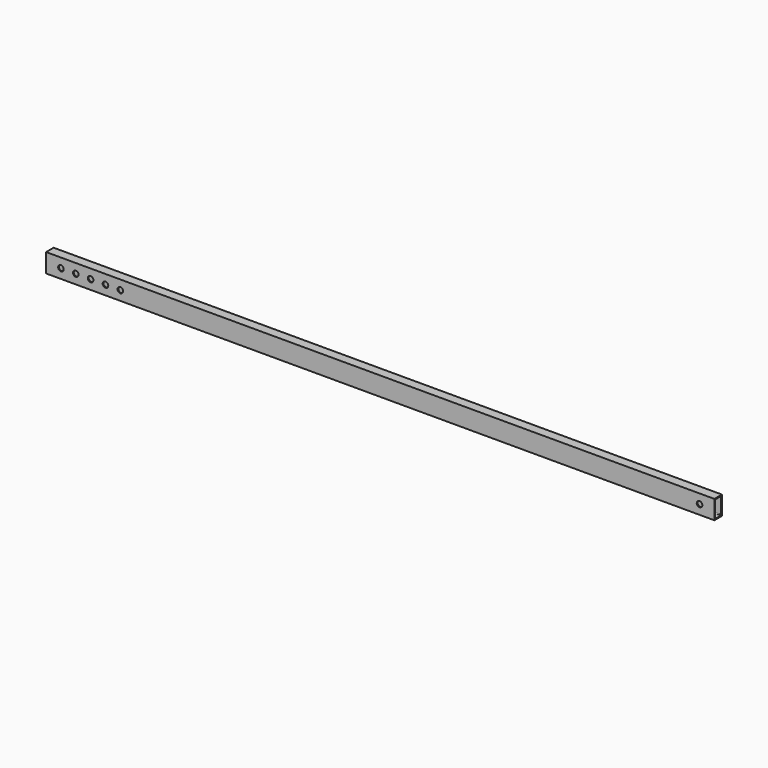
from build123d import *

# Parameters (mm, degrees)
F0_W     = 25.4
F0_H     = 50.8
F1_DEPTH = 1800
F2_R     = 7.5
F3_DEPTH = 25.4
F4_R     = 7.5
F5_DEPTH = 25.4


with BuildPart() as f1:
    # F0 (on Right) → F1 (new body)
    with BuildSketch(Plane.YZ):
        Rectangle(F0_W, F0_H)
        with BuildLine():
            Line((-8.2, 22.9), (8.2, 22.9))
            ThreePointArc((8.2, 22.9), (9.614214, 22.314214), (10.2, 20.9))
            Line((10.2, 20.9), (10.2, -20.9))
            ThreePointArc((10.2, -20.9), (9.614214, -22.314214), (8.2, -22.9))
            Line((8.2, -22.9), (-8.2, -22.9))
            ThreePointArc((-8.2, -22.9), (-9.614214, -22.314214), (-10.2, -20.9))
            Line((-10.2, -20.9), (-10.2, 20.9))
            ThreePointArc((-10.2, 20.9), (-9.614214, 22.314214), (-8.2, 22.9))
        make_face(mode=Mode.SUBTRACT)
    extrude(amount=F1_DEPTH)

    # F2 (on face) → F3 (cut, through all)
    with BuildSketch(Plane.XZ.offset(12.7)):
        with Locations((1760, 0)):
            Circle(F2_R)
    extrude(amount=-F3_DEPTH, mode=Mode.SUBTRACT)

    # F4 (on face) → F5 (cut, through all)
    with BuildSketch(Plane.XZ.offset(12.7)):
        with Locations((40, 0)):
            Circle(F4_R)
        with Locations((80, 0)):
            Circle(F4_R)
        with Locations((120, 0)):
            Circle(F4_R)
        with Locations((160, 0)):
            Circle(F4_R)
        with Locations((200, 0)):
            Circle(F4_R)
    extrude(amount=-F5_DEPTH, mode=Mode.SUBTRACT)


solid = f1.part
